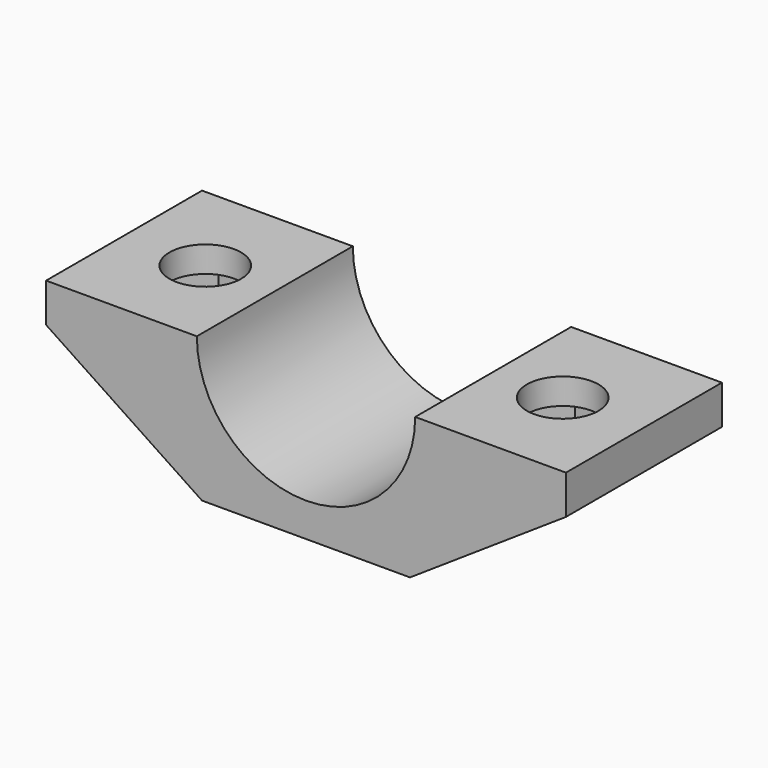
from build123d import *

# Parameters (mm, degrees)
F0_W     = 50.8
F0_H     = 13.97
F1_DEPTH = 19.05
F3_DEPTH = 19.05
F5_DEPTH = 25.4
F6_R     = 3.5000041341
F7_DEPTH = 25.4
F9_DEPTH = 11.43


with BuildPart() as f1:
    # F0 (on Front) → F1 (new body)
    with BuildSketch(Plane.XZ):
        with Locations((0, -6.985)):
            Rectangle(F0_W, F0_H)
    extrude(amount=-F1_DEPTH)

    # F2 (on face) → F3 (cut)
    with BuildSketch(Plane.XZ):
        with BuildLine():
            ThreePointArc((-10.668, 0), (0, -10.668), (10.668, 0))
            Line((10.668, 0), (-10.668, 0))
        make_face()
    extrude(amount=-F3_DEPTH, mode=Mode.SUBTRACT)

    # F4 (on face) → F5 (cut)
    with BuildSketch(Plane.XZ):
        Polygon((-25.4, -3.81), (-25.4, -13.97), (-10.16, -13.97), align=None)
        Polygon((25.4, -13.97), (25.4, -3.81), (10.16, -13.97), align=None)
    extrude(amount=-F5_DEPTH, mode=Mode.SUBTRACT)

    # F6 (on face) → F7 (cut)
    with BuildSketch(Plane.XY):
        with Locations((-17.4625, 9.525)):
            Circle(F6_R)
        with Locations((17.4625, 9.525)):
            Circle(F6_R)
    extrude(amount=-F7_DEPTH, mode=Mode.SUBTRACT)

    # F8 (on face) → F9 (cut)
    with BuildSketch(Plane(origin=(0, 0, -13.97), x_dir=(1, 0, 0), z_dir=(0, 0, -1))):
        Polygon((-14.2547823489, -3.9263508054), (-20.7072136039, -3.9477104287), (-23.9149312549, -9.5463596233), (-20.6702176511, -15.1236491946), (-14.2177863961, -15.1022895713), (-11.0100687451, -9.5036403767), align=None)
        Polygon((23.9149312549, -9.5463596233), (20.7072136039, -3.9477104287), (14.2547823489, -3.9263508054), (11.0100687451, -9.5036403767), (14.2177863961, -15.1022895713), (20.6702176511, -15.1236491946), align=None)
    extrude(amount=-F9_DEPTH, mode=Mode.SUBTRACT)


solid = f1.part
